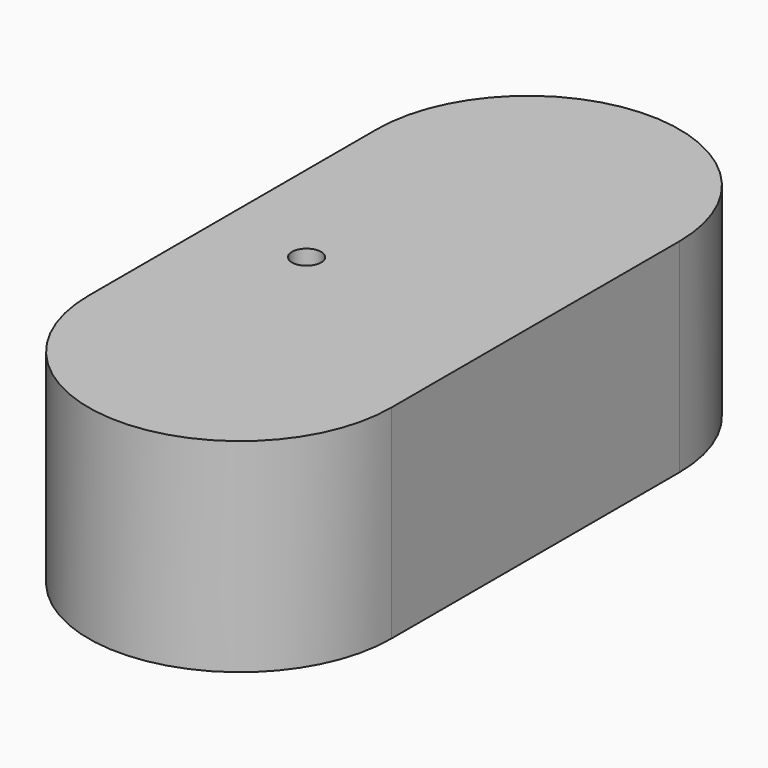
from build123d import *

# Parameters (mm, degrees)
CYLINDER025_R              = 1.5
CYLINDER025_DEPTH          = 4
CYLINDER020_R              = 2.1
CYLINDER020_DEPTH          = 9
CYLINDER019_R              = 4
CYLINDER019_DEPTH          = 12
CUT015_PLACEMENT_ANGLE     = 180
CYLINDER022_R              = 2.1
CYLINDER022_DEPTH          = 9
EXTRUDE005_DEPTH           = 3
EXTRUDE005_PLACEMENT_ANGLE = 270
CYLINDER021_R              = 2.1
CYLINDER021_DEPTH          = 9
BOX_W                      = 28
BOX_H                      = 46
BOX_DEPTH                  = 19
EXTRUDE009_DEPTH           = 21


with BuildPart() as ledhold001:
    # Cylinder025 → Cylinder025 (new body)
    with BuildSketch(Plane(origin=(-30, 0, 67), x_dir=(1, 0, 0), z_dir=(0, 0, 1))):
        Circle(CYLINDER025_R)
    extrude(amount=CYLINDER025_DEPTH)


with BuildPart() as insert006:
    # Cylinder020 → Cylinder020 (new body)
    with BuildSketch(Plane(origin=(5.5, -0.5, 1), x_dir=(1, 0, 0), z_dir=(0, 0, 1))):
        Circle(CYLINDER020_R)
    extrude(amount=CYLINDER020_DEPTH)


with BuildPart() as obj1:
    # Cylinder019 → Cylinder019 (new body)
    with BuildSketch(Plane(origin=(5.5, -0.5, -2), x_dir=(1, 0, 0), z_dir=(0, 0, 1))):
        Circle(CYLINDER019_R)
    extrude(amount=CYLINDER019_DEPTH)

    # Cut015: cut insert006
    add(insert006.part, mode=Mode.SUBTRACT)


with BuildPart() as obj1_1:
    # Cut015 placement: moved
    add(obj1.part.moved(Location((-34, -14.7, 66))).rotate(Axis((-34, -14.7, 66), (1, 0, 0)), CUT015_PLACEMENT_ANGLE))


with BuildPart() as obj2:
    # Clone006 base: copy of obj1
    add(obj1_1.part)


with BuildPart() as obj2_1:
    # Clone006 placement: moved
    add(obj2.part.moved(Location((0, 29.7, 0))))


with BuildPart() as insert008:
    # Cylinder022 → Cylinder022 (new body)
    with BuildSketch(Plane(origin=(-24, -25, 49), x_dir=(1, 0, 0), z_dir=(0, 0, 1))):
        Circle(CYLINDER022_R)
    extrude(amount=CYLINDER022_DEPTH)


with BuildPart() as usbextrude001:
    # Sketch005 → Extrude005 (new body)
    with BuildSketch(Plane(origin=(-2, -1, -5), x_dir=(1, 0, 0), z_dir=(0, -1, 0))):
        with BuildLine():
            ThreePointArc((16.408865, 14.741362), (13.786843, 12.11934), (16.408865, 9.497318))
            Line((16.408865, 9.497318), (23.664412, 9.497318))
            ThreePointArc((23.664412, 9.497318), (26.286434, 12.11934), (23.664412, 14.741362))
            Line((16.408865, 14.741362), (23.664412, 14.741362))
        make_face()
    extrude(amount=EXTRUDE005_DEPTH)


with BuildPart() as usbextrude001_1:
    # Extrude005 placement: moved
    add(usbextrude001.part.moved(Location((-36, 18, 54))).rotate(Axis((-36, 18, 54), (0, 0, 1)), EXTRUDE005_PLACEMENT_ANGLE))


with BuildPart() as fusion001:
    # Cylinder021 → Cylinder021 (new body)
    with BuildSketch(Plane(origin=(-24, 30, 49), x_dir=(1, 0, 0), z_dir=(0, 0, 1))):
        Circle(CYLINDER021_R)
    extrude(amount=CYLINDER021_DEPTH)

    # Fusion001: union insert008, usbExtrude001
    add(insert008.part)
    add(usbextrude001_1.part)


with BuildPart() as inner001:
    # Box → Box (new body)
    with BuildSketch(Plane(origin=(-38, -21, 49), x_dir=(1, 0, 0), z_dir=(0, 0, 1))):
        with Locations((14, 23)):
            Rectangle(BOX_W, BOX_H)
    extrude(amount=BOX_DEPTH)


with BuildPart() as obj3:
    # Sketch006 (on Face6 of Box) → Extrude009 (new body)
    with BuildSketch(Plane(origin=(-38, -21, 70), x_dir=(1, 0, 0), z_dir=(0, 0, 1))):
        with BuildLine():
            ThreePointArc((29.739196, 41.946692), (14.106739, 57.579149), (-1.525718, 41.946692))
            Line((-1.525718, 41.946692), (-1.525718, 4.775835))
            ThreePointArc((-1.525718, 4.775835), (14.106739, -10.856622), (29.739196, 4.775835))
            Line((29.739196, 41.946692), (29.739196, 4.775835))
        make_face()
    extrude(amount=-EXTRUDE009_DEPTH)

    # Cut016: cut inner001
    add(inner001.part, mode=Mode.SUBTRACT)

    # Cut017: cut Fusion001
    add(fusion001.part, mode=Mode.SUBTRACT)

    # Fusion002: union obj2, obj1
    add(obj2_1.part)
    add(obj1_1.part)

    # Cut019: cut ledHold001
    add(ledhold001.part, mode=Mode.SUBTRACT)


solid = obj3.part
